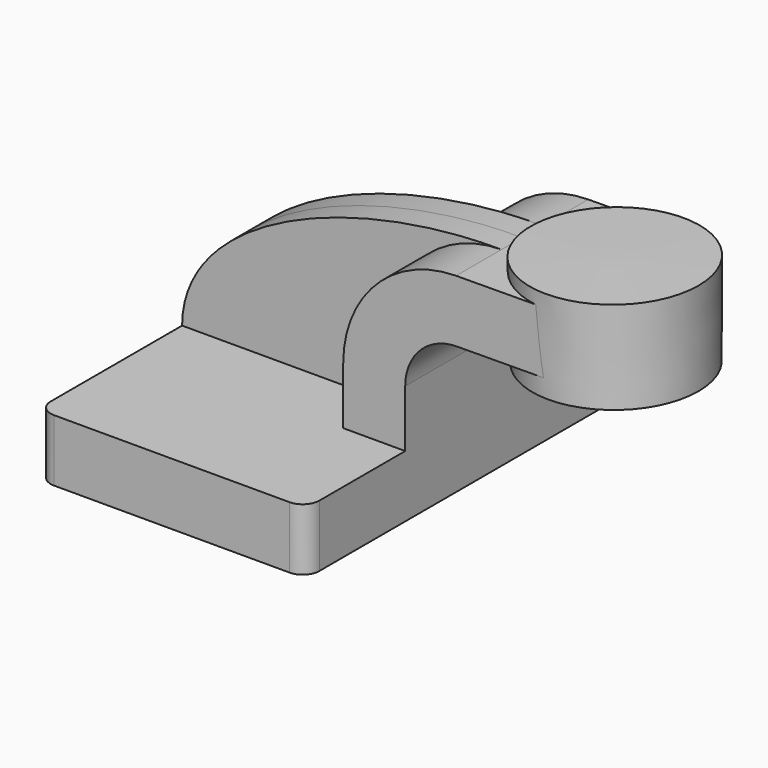
from build123d import *

# Parameters (mm, degrees)
F1_DEPTH = 63.5
F2_DEPTH = 25.4
F3_DEPTH = 7.9375
F5_R     = 5.08


with BuildPart() as f1:
    # F0 (on Front) → F1 (new body, symmetric)
    with BuildSketch(Plane.XZ):
        Polygon((22.225, 9.525), (-41.275, 9.525), (-41.275, -9.525), (41.275, -9.525), (41.275, 9.525), align=None)
    extrude(amount=F1_DEPTH, both=True)

    # F0 (on Front) → F2 (join, symmetric)
    with BuildSketch(Plane.XZ):
        with BuildLine():
            Line((22.225, 27.1089508341), (22.225, 9.525))
            Line((22.225, 9.525), (41.275, 9.525))
            Line((41.275, 9.525), (41.275, 27.1089508341))
            ThreePointArc((41.275, 27.1089508341), (45.8865944339, 38.2960559133), (57.0420954398, 42.9835841088))
            Line((57.0420954398, 42.9835841088), (60.325, 43.0058989785))
            Line((60.325, 43.0058989785), (60.325, 62.056339059))
            Line((60.325, 62.056339059), (56.9126099675, 62.0331440384))
            ThreePointArc((56.9126099675, 62.0331440384), (32.3705077545, 51.7205820083), (22.225, 27.1089508341))
        make_face()
        Polygon((85.3500794925, 62.2264418986), (60.325, 62.056339059), (60.325, 43.0058989785), (85.4795649648, 43.176881969), (85.3787372937, 61.4743826337), align=None)
    extrude(amount=F2_DEPTH, both=True)

    # F0 (on Front) → F3 (join, symmetric)
    with BuildSketch(Plane.XZ):
        with BuildLine():
            add(Edge.make_bspline(
                [(-41.275, 9.525), (-41.1433540285, 41.4384305477), (10.1432753727, 62.2998327017), (56.9126099675, 62.0331440384)],
                knots=[0, 0, 0, 0, 111.3459112023, 111.3459112023, 111.3459112023, 111.3459112023], degree=3))
            Line((-41.275, 9.525), (22.225, 9.525))
            Line((22.225, 9.525), (22.225, 27.1089508341))
            ThreePointArc((22.225, 27.1089508341), (32.3705077545, 51.7205820083), (56.9126099675, 62.0331440384))
        make_face()
    extrude(amount=F3_DEPTH, both=True)

    # F0 (on Front) → F4 (revolve)
    with BuildSketch(Plane.XZ):
        Polygon((111.125, 66.675), (85.3500794925, 66.675), (85.4390979857, 59.8903526073), (85.725, 38.1), (111.125, 38.1), align=None)
    revolve(axis=Axis((85.5375397462, 0, 52.3875), (0.0131194485, 0, -0.9999139363)))

    # F5
    f5_edges = [f1.edges().sort_by_distance(p)[0] for p in [
        (41.275, -63.5, 0),
        (-41.275, -63.5, 0),
        (-41.275, 63.5, 0),
        (41.275, 63.5, 0),
    ]]
    fillet(f5_edges, radius=F5_R)


solid = f1.part
